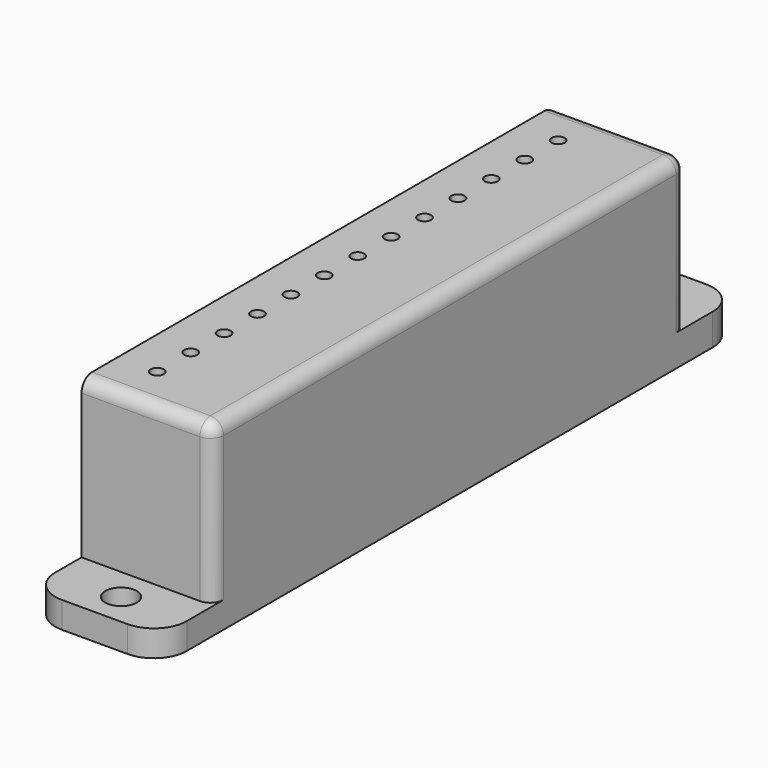
from build123d import *

# Parameters (mm, degrees)
SKETCH_W        = 20
SKETCH_H        = 110
PAD_DEPTH       = 28
SKETCH003_R     = 1
POCKET_DEPTH    = 28.001
SKETCH004_W     = 14
SKETCH004_H     = 25
SKETCH004_W_2   = 12.717113
SKETCH004_H_2   = 24.211324
POCKET001_DEPTH = 20.001
SKETCH005_W     = 82
SKETCH005_H     = 26
POCKET002_DEPTH = 17
SKETCH006_R     = 2.4
POCKET003_DEPTH = 5
FILLET_R        = 2
FILLET001_R     = 5


with BuildPart() as part:
    # Sketch → Pad (new body)
    with BuildSketch(Plane.XY):
        Rectangle(SKETCH_W, SKETCH_H)
    extrude(amount=PAD_DEPTH)

    # Sketch003 → Pocket (cut, through all)
    with BuildSketch(Plane(origin=(0, 0, 0), x_dir=(1, 0, 0), z_dir=(0, 0, -1))):
        with Locations((-4, -0.004117)):
            Circle(SKETCH003_R)
        with Locations((-4, 6.346514)):
            Circle(SKETCH003_R)
        with Locations((-4, 12.697146)):
            Circle(SKETCH003_R)
        with Locations((-4, -6.354749)):
            Circle(SKETCH003_R)
        with Locations((-4, 19.047777)):
            Circle(SKETCH003_R)
        with Locations((-4, 25.398409)):
            Circle(SKETCH003_R)
        with Locations((-4, 31.74904)):
            Circle(SKETCH003_R)
        with Locations((-4, 38.099672)):
            Circle(SKETCH003_R)
        with Locations((-4, -38.107906)):
            Circle(SKETCH003_R)
        with Locations((-4, -12.70538)):
            Circle(SKETCH003_R)
        with Locations((-4, -19.056012)):
            Circle(SKETCH003_R)
        with Locations((-4, -25.406643)):
            Circle(SKETCH003_R)
        with Locations((-4, -31.757274)):
            Circle(SKETCH003_R)
    extrude(amount=-POCKET_DEPTH, mode=Mode.SUBTRACT)

    # Sketch004 → Pocket001 (cut, through all)
    with BuildSketch(Plane.YZ.offset(10)):
        with Locations((-52, 16.5)):
            Rectangle(SKETCH004_W, SKETCH004_H)
        with Locations((51.358556, 16.894338)):
            Rectangle(SKETCH004_W_2, SKETCH004_H_2)
    extrude(amount=-POCKET001_DEPTH, mode=Mode.SUBTRACT)

    # Sketch005 → Pocket002 (cut)
    with BuildSketch(Plane(origin=(-10, 0, 0), x_dir=(0, -1, 0), z_dir=(-1, 0, 0))):
        with Locations((0, 12)):
            Rectangle(SKETCH005_W, SKETCH005_H)
    extrude(amount=-POCKET002_DEPTH, mode=Mode.SUBTRACT)

    # Sketch006 → Pocket003 (cut)
    with BuildSketch(Plane.XY.offset(4.788676)):
        with Locations((0, 50)):
            Circle(SKETCH006_R)
        with Locations((0, -50)):
            Circle(SKETCH006_R)
    extrude(amount=-POCKET003_DEPTH, mode=Mode.SUBTRACT)

    # Fillet
    fillet_edges = [part.edges().sort_by_distance(p)[0] for p in [
        (10, -45, 16),
        (10, 0, 28),
        (10, 45, 16.394338),
        (0, 45, 28),
        (0, -45, 28),
    ]]
    fillet(fillet_edges, radius=FILLET_R)

    # Fillet001
    fillet001_edges = [part.edges().sort_by_distance(p)[0] for p in [
        (10, 55, 2.394338),
        (-10, 55, 2.394338),
        (-10, -55, 2),
        (10, -55, 2),
    ]]
    fillet(fillet001_edges, radius=FILLET001_R)


solid = part.part
